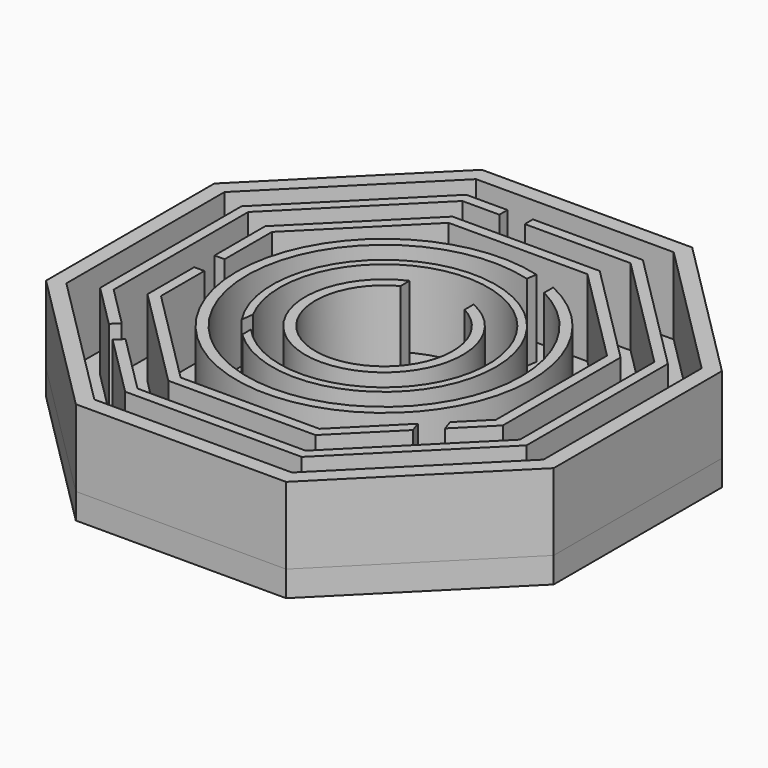
from build123d import *

# Parameters (mm, degrees)
F1_DEPTH = 6
F3_DEPTH = 2


with BuildPart() as f1:
    # F0 (on Top) → F1 (new body)
    with BuildSketch(Plane.XY):
        Polygon((8.211314, 19.823864), (-8.211314, 19.823864), (-19.823864, 8.211314), (-19.823864, -8.211314), (-8.211314, -19.823864), (8.211314, -19.823864), (19.823864, -8.211314), (19.823864, 8.211314), align=None)
        Polygon((-18.634432, -7.718634), (-18.634432, 7.718634), (-7.718634, 18.634432), (7.718634, 18.634432), (18.634432, 7.718634), (18.634432, -7.718634), (7.718634, -18.634432), (-7.718634, -18.634432), align=None, mode=Mode.SUBTRACT)
        Polygon((-16.652045, 6.897503), (-16.652045, -6.897503), (-13.265415, -10.284133), (-12.704712, -9.72343), (-15.859091, -6.569051), (-15.859091, 6.569051), (-6.569051, 15.859091), (-3.675188, 15.859091), (-3.675188, 16.652045), (-6.897503, 16.652045), align=None)
        Polygon((-5.747919, 13.876704), (-13.876704, 5.747919), (-13.876704, 0.799376), (-13.08375, 0.799376), (-13.08375, 5.419467), (-5.419467, 13.08375), (5.419467, 13.08375), (13.08375, 5.419467), (13.08375, -5.419467), (11.09462, -7.408596), (11.374686, -8.249938), (13.876704, -5.747919), (13.876704, 5.747919), (5.747919, 13.876704), align=None)
        with BuildLine():
            Line((2.911275, 10.30254), (3.033471, 11.091557))
            ThreePointArc((3.033471, 11.091557), (-3.97036, -10.789108), (4.893661, 10.406322))
            Line((4.893661, 10.406322), (4.893661, 9.522909))
            ThreePointArc((4.893661, 9.522909), (-3.913907, -9.96216), (2.911275, 10.30254))
        make_face()
        with BuildLine():
            Line((-6.035547, -5.445288), (-6.035547, -6.293321))
            ThreePointArc((-6.035547, -6.293321), (6.719577, 5.56624), (-7.300602, -4.767054))
            Line((-7.300602, -4.767054), (-7.17364, -3.822142))
            ThreePointArc((-7.17364, -3.822142), (6.662241, 4.668522), (-6.035547, -5.445288))
        make_face()
        with BuildLine():
            Line((-2.495999, 4.737338), (-2.495999, 5.618372))
            ThreePointArc((-2.495999, 5.618372), (0.004001, -6.149483), (2.504001, 5.618372))
            Line((2.504001, 5.618372), (2.504001, 4.737338))
            ThreePointArc((2.504001, 4.737338), (0.004001, -5.356529), (-2.495999, 4.737338))
        make_face()
        Polygon((-11.774774, -11.774774), (-6.897503, -16.652045), (6.897503, -16.652045), (16.652045, -6.897503), (16.652045, 6.897503), (6.897503, 16.652045), (-1.692802, 16.652045), (-1.692802, 15.859091), (6.569051, 15.859091), (15.859091, 6.569051), (15.859091, -6.569051), (6.569051, -15.859091), (-6.569051, -15.859091), (-11.214071, -11.214071), align=None)
        Polygon((-13.876704, -1.18301), (-13.876704, -5.747919), (-5.747919, -13.876704), (5.747919, -13.876704), (9.972927, -9.651697), (9.692861, -8.810355), (5.419467, -13.08375), (-5.419467, -13.08375), (-13.08375, -5.419467), (-13.08375, -1.18301), align=None)
    extrude(amount=F1_DEPTH)


with BuildPart() as f3:
    # F2 (on Top) → F3 (new body)
    with BuildSketch(Plane.XY):
        Polygon((8.211314, -19.823864), (19.823864, -8.211314), (19.823864, 8.211314), (8.211314, 19.823864), (-8.211314, 19.823864), (-19.823864, 8.211314), (-19.823864, -8.211314), (-8.211314, -19.823864), align=None)
    extrude(amount=-F3_DEPTH)


solid = Compound([f1.part, f3.part])
